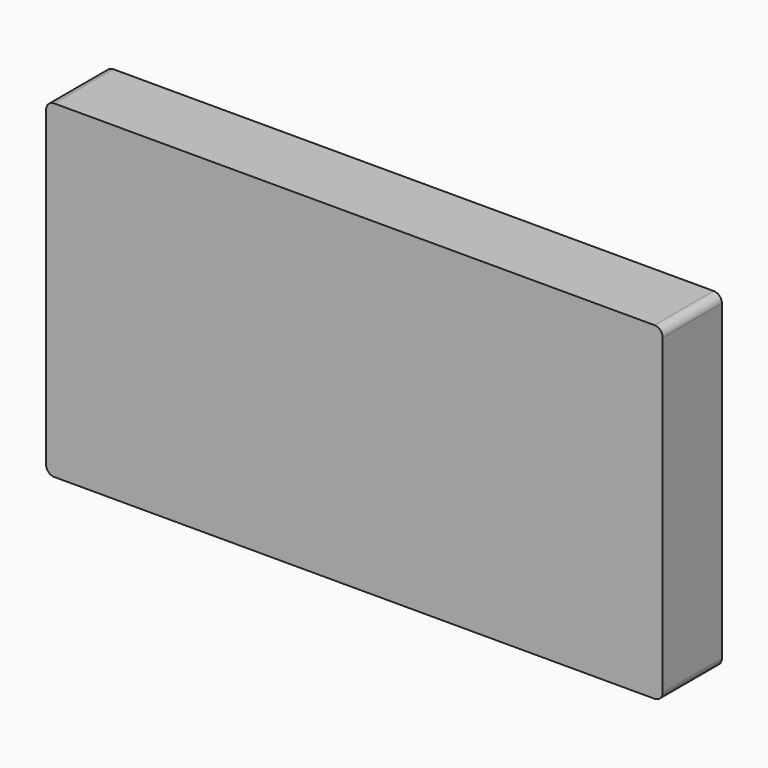
from build123d import *

# Parameters (mm, degrees)
F1_DEPTH = 9
F2_R     = 1


with BuildPart() as f1:
    # F0 (on Front) → F1 (new body)
    with BuildSketch(Plane.XZ):
        Polygon((37.5, -20), (37.5, 20), (0, 20), (-37.5, 20), (-37.5, -20), (0, -20), align=None)
    extrude(amount=F1_DEPTH)

    # F2
    f2_edges = [f1.edges().sort_by_distance(p)[0] for p in [
        (-37.5, -4.5, 20),
        (-37.5, -4.5, -20),
        (37.5, -4.5, 20),
        (37.5, -4.5, -20),
    ]]
    fillet(f2_edges, radius=F2_R)


solid = f1.part
